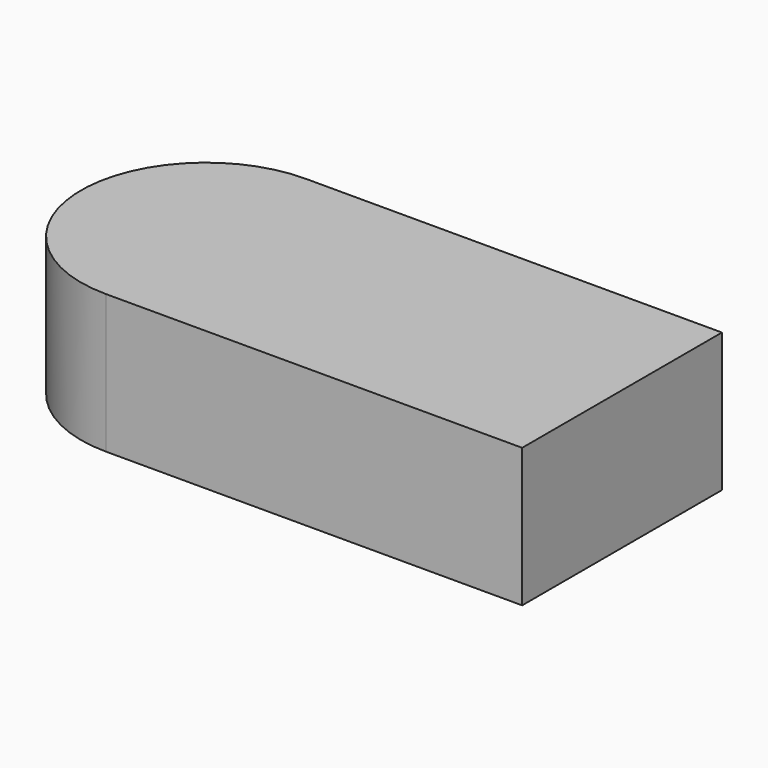
from build123d import *

# Parameters (mm, degrees)
F1_DEPTH = 25
F2_DEPTH = 25


with BuildPart() as f1:
    # F0 (on Top) → F1 (new body)
    with BuildSketch(Plane.XY):
        with BuildLine():
            ThreePointArc((0, 22.5), (15.909903, 15.909903), (22.5, 0))
            ThreePointArc((22.5, 0), (15.909903, -15.909903), (0, -22.5))
            Line((0, -22.5), (75, -22.5))
            Line((75, -22.5), (75, 22.5))
            Line((75, 22.5), (0, 22.5))
        make_face()
        with BuildLine():
            ThreePointArc((0, -22.5), (15.909903, -15.909903), (22.5, 0))
            ThreePointArc((22.5, 0), (15.909903, 15.909903), (0, 22.5))
            ThreePointArc((0, 22.5), (-22.5, 0), (0, -22.5))
        make_face()
    extrude(amount=F1_DEPTH)

    # F0 (on Top) → F2 (join)
    with BuildSketch(Plane.XY):
        with BuildLine():
            ThreePointArc((0, -22.5), (15.909903, -15.909903), (22.5, 0))
            ThreePointArc((22.5, 0), (15.909903, 15.909903), (0, 22.5))
            ThreePointArc((0, 22.5), (-22.5, 0), (0, -22.5))
        make_face()
    extrude(amount=F2_DEPTH)


solid = f1.part
